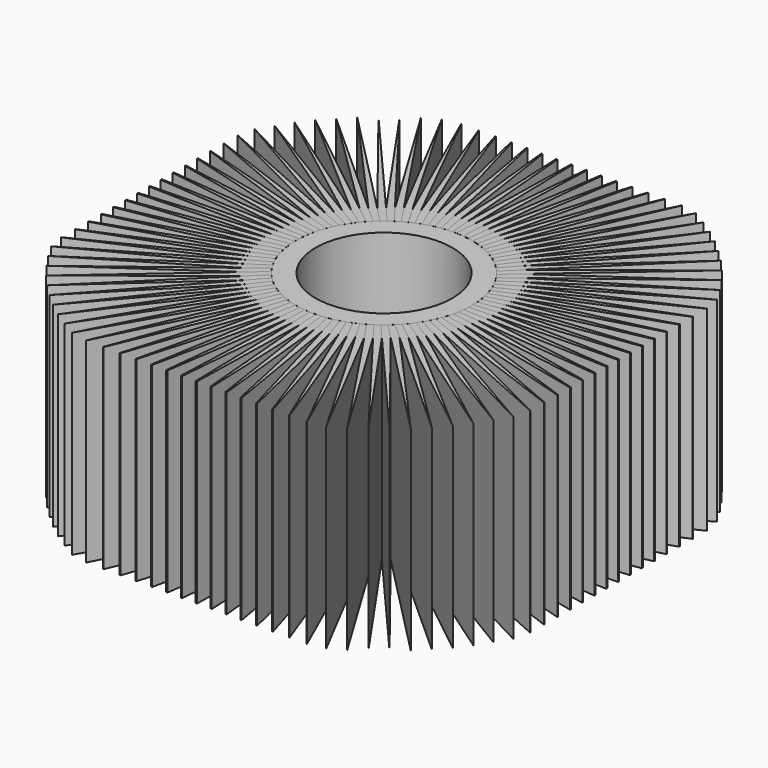
from build123d import *

# Parameters (mm, degrees)
F0_R     = 22.5
F0_R_2   = 17.5
F1_DEPTH = 50
F3_DEPTH = 50
F4_COUNT = 100
F5_W     = 120
F5_H     = 120
F6_DEPTH = 50.001


with BuildPart() as f1:
    # F0 (on Top) → F1 (new body)
    with BuildSketch(Plane.XY):
        Circle(F0_R)
        Circle(F0_R_2, mode=Mode.SUBTRACT)
    extrude(amount=F1_DEPTH)


with BuildPart() as f3:
    # F2 (on Top) → F3 (new body)
    with BuildSketch(Plane.XY):
        Polygon((0, 67.5), (-1, 22.477767), (1, 22.477767), align=None)
    extrude(amount=F3_DEPTH)


with BuildPart() as f4_1:
    # F4: instance of F3
    add(f3.part.rotate(Axis((0, 0, 0), (0, 0, 1)), 1 * 360 / F4_COUNT))


with BuildPart() as f4_2:
    # F4: instance of F3
    add(f3.part.rotate(Axis((0, 0, 0), (0, 0, 1)), 2 * 360 / F4_COUNT))


with BuildPart() as f4_3:
    # F4: instance of F3
    add(f3.part.rotate(Axis((0, 0, 0), (0, 0, 1)), 3 * 360 / F4_COUNT))


with BuildPart() as f4_4:
    # F4: instance of F3
    add(f3.part.rotate(Axis((0, 0, 0), (0, 0, 1)), 4 * 360 / F4_COUNT))


with BuildPart() as f4_5:
    # F4: instance of F3
    add(f3.part.rotate(Axis((0, 0, 0), (0, 0, 1)), 5 * 360 / F4_COUNT))


with BuildPart() as f4_6:
    # F4: instance of F3
    add(f3.part.rotate(Axis((0, 0, 0), (0, 0, 1)), 6 * 360 / F4_COUNT))


with BuildPart() as f4_7:
    # F4: instance of F3
    add(f3.part.rotate(Axis((0, 0, 0), (0, 0, 1)), 7 * 360 / F4_COUNT))


with BuildPart() as f4_8:
    # F4: instance of F3
    add(f3.part.rotate(Axis((0, 0, 0), (0, 0, 1)), 8 * 360 / F4_COUNT))


with BuildPart() as f4_9:
    # F4: instance of F3
    add(f3.part.rotate(Axis((0, 0, 0), (0, 0, 1)), 9 * 360 / F4_COUNT))


with BuildPart() as f4_10:
    # F4: instance of F3
    add(f3.part.rotate(Axis((0, 0, 0), (0, 0, 1)), 10 * 360 / F4_COUNT))


with BuildPart() as f4_11:
    # F4: instance of F3
    add(f3.part.rotate(Axis((0, 0, 0), (0, 0, 1)), 11 * 360 / F4_COUNT))


with BuildPart() as f4_12:
    # F4: instance of F3
    add(f3.part.rotate(Axis((0, 0, 0), (0, 0, 1)), 12 * 360 / F4_COUNT))


with BuildPart() as f4_13:
    # F4: instance of F3
    add(f3.part.rotate(Axis((0, 0, 0), (0, 0, 1)), 13 * 360 / F4_COUNT))


with BuildPart() as f4_14:
    # F4: instance of F3
    add(f3.part.rotate(Axis((0, 0, 0), (0, 0, 1)), 14 * 360 / F4_COUNT))


with BuildPart() as f4_15:
    # F4: instance of F3
    add(f3.part.rotate(Axis((0, 0, 0), (0, 0, 1)), 15 * 360 / F4_COUNT))


with BuildPart() as f4_16:
    # F4: instance of F3
    add(f3.part.rotate(Axis((0, 0, 0), (0, 0, 1)), 16 * 360 / F4_COUNT))


with BuildPart() as f4_17:
    # F4: instance of F3
    add(f3.part.rotate(Axis((0, 0, 0), (0, 0, 1)), 17 * 360 / F4_COUNT))


with BuildPart() as f4_18:
    # F4: instance of F3
    add(f3.part.rotate(Axis((0, 0, 0), (0, 0, 1)), 18 * 360 / F4_COUNT))


with BuildPart() as f4_19:
    # F4: instance of F3
    add(f3.part.rotate(Axis((0, 0, 0), (0, 0, 1)), 19 * 360 / F4_COUNT))


with BuildPart() as f4_20:
    # F4: instance of F3
    add(f3.part.rotate(Axis((0, 0, 0), (0, 0, 1)), 20 * 360 / F4_COUNT))


with BuildPart() as f4_21:
    # F4: instance of F3
    add(f3.part.rotate(Axis((0, 0, 0), (0, 0, 1)), 21 * 360 / F4_COUNT))


with BuildPart() as f4_22:
    # F4: instance of F3
    add(f3.part.rotate(Axis((0, 0, 0), (0, 0, 1)), 22 * 360 / F4_COUNT))


with BuildPart() as f4_23:
    # F4: instance of F3
    add(f3.part.rotate(Axis((0, 0, 0), (0, 0, 1)), 23 * 360 / F4_COUNT))


with BuildPart() as f4_24:
    # F4: instance of F3
    add(f3.part.rotate(Axis((0, 0, 0), (0, 0, 1)), 24 * 360 / F4_COUNT))


with BuildPart() as f4_25:
    # F4: instance of F3
    add(f3.part.rotate(Axis((0, 0, 0), (0, 0, 1)), 25 * 360 / F4_COUNT))


with BuildPart() as f4_26:
    # F4: instance of F3
    add(f3.part.rotate(Axis((0, 0, 0), (0, 0, 1)), 26 * 360 / F4_COUNT))


with BuildPart() as f4_27:
    # F4: instance of F3
    add(f3.part.rotate(Axis((0, 0, 0), (0, 0, 1)), 27 * 360 / F4_COUNT))


with BuildPart() as f4_28:
    # F4: instance of F3
    add(f3.part.rotate(Axis((0, 0, 0), (0, 0, 1)), 28 * 360 / F4_COUNT))


with BuildPart() as f4_29:
    # F4: instance of F3
    add(f3.part.rotate(Axis((0, 0, 0), (0, 0, 1)), 29 * 360 / F4_COUNT))


with BuildPart() as f4_30:
    # F4: instance of F3
    add(f3.part.rotate(Axis((0, 0, 0), (0, 0, 1)), 30 * 360 / F4_COUNT))


with BuildPart() as f4_31:
    # F4: instance of F3
    add(f3.part.rotate(Axis((0, 0, 0), (0, 0, 1)), 31 * 360 / F4_COUNT))


with BuildPart() as f4_32:
    # F4: instance of F3
    add(f3.part.rotate(Axis((0, 0, 0), (0, 0, 1)), 32 * 360 / F4_COUNT))


with BuildPart() as f4_33:
    # F4: instance of F3
    add(f3.part.rotate(Axis((0, 0, 0), (0, 0, 1)), 33 * 360 / F4_COUNT))


with BuildPart() as f4_34:
    # F4: instance of F3
    add(f3.part.rotate(Axis((0, 0, 0), (0, 0, 1)), 34 * 360 / F4_COUNT))


with BuildPart() as f4_35:
    # F4: instance of F3
    add(f3.part.rotate(Axis((0, 0, 0), (0, 0, 1)), 35 * 360 / F4_COUNT))


with BuildPart() as f4_36:
    # F4: instance of F3
    add(f3.part.rotate(Axis((0, 0, 0), (0, 0, 1)), 36 * 360 / F4_COUNT))


with BuildPart() as f4_37:
    # F4: instance of F3
    add(f3.part.rotate(Axis((0, 0, 0), (0, 0, 1)), 37 * 360 / F4_COUNT))


with BuildPart() as f4_38:
    # F4: instance of F3
    add(f3.part.rotate(Axis((0, 0, 0), (0, 0, 1)), 38 * 360 / F4_COUNT))


with BuildPart() as f4_39:
    # F4: instance of F3
    add(f3.part.rotate(Axis((0, 0, 0), (0, 0, 1)), 39 * 360 / F4_COUNT))


with BuildPart() as f4_40:
    # F4: instance of F3
    add(f3.part.rotate(Axis((0, 0, 0), (0, 0, 1)), 40 * 360 / F4_COUNT))


with BuildPart() as f4_41:
    # F4: instance of F3
    add(f3.part.rotate(Axis((0, 0, 0), (0, 0, 1)), 41 * 360 / F4_COUNT))


with BuildPart() as f4_42:
    # F4: instance of F3
    add(f3.part.rotate(Axis((0, 0, 0), (0, 0, 1)), 42 * 360 / F4_COUNT))


with BuildPart() as f4_43:
    # F4: instance of F3
    add(f3.part.rotate(Axis((0, 0, 0), (0, 0, 1)), 43 * 360 / F4_COUNT))


with BuildPart() as f4_44:
    # F4: instance of F3
    add(f3.part.rotate(Axis((0, 0, 0), (0, 0, 1)), 44 * 360 / F4_COUNT))


with BuildPart() as f4_45:
    # F4: instance of F3
    add(f3.part.rotate(Axis((0, 0, 0), (0, 0, 1)), 45 * 360 / F4_COUNT))


with BuildPart() as f4_46:
    # F4: instance of F3
    add(f3.part.rotate(Axis((0, 0, 0), (0, 0, 1)), 46 * 360 / F4_COUNT))


with BuildPart() as f4_47:
    # F4: instance of F3
    add(f3.part.rotate(Axis((0, 0, 0), (0, 0, 1)), 47 * 360 / F4_COUNT))


with BuildPart() as f4_48:
    # F4: instance of F3
    add(f3.part.rotate(Axis((0, 0, 0), (0, 0, 1)), 48 * 360 / F4_COUNT))


with BuildPart() as f4_49:
    # F4: instance of F3
    add(f3.part.rotate(Axis((0, 0, 0), (0, 0, 1)), 49 * 360 / F4_COUNT))


with BuildPart() as f4_50:
    # F4: instance of F3
    add(f3.part.rotate(Axis((0, 0, 0), (0, 0, 1)), 50 * 360 / F4_COUNT))


with BuildPart() as f4_51:
    # F4: instance of F3
    add(f3.part.rotate(Axis((0, 0, 0), (0, 0, 1)), 51 * 360 / F4_COUNT))


with BuildPart() as f4_52:
    # F4: instance of F3
    add(f3.part.rotate(Axis((0, 0, 0), (0, 0, 1)), 52 * 360 / F4_COUNT))


with BuildPart() as f4_53:
    # F4: instance of F3
    add(f3.part.rotate(Axis((0, 0, 0), (0, 0, 1)), 53 * 360 / F4_COUNT))


with BuildPart() as f4_54:
    # F4: instance of F3
    add(f3.part.rotate(Axis((0, 0, 0), (0, 0, 1)), 54 * 360 / F4_COUNT))


with BuildPart() as f4_55:
    # F4: instance of F3
    add(f3.part.rotate(Axis((0, 0, 0), (0, 0, 1)), 55 * 360 / F4_COUNT))


with BuildPart() as f4_56:
    # F4: instance of F3
    add(f3.part.rotate(Axis((0, 0, 0), (0, 0, 1)), 56 * 360 / F4_COUNT))


with BuildPart() as f4_57:
    # F4: instance of F3
    add(f3.part.rotate(Axis((0, 0, 0), (0, 0, 1)), 57 * 360 / F4_COUNT))


with BuildPart() as f4_58:
    # F4: instance of F3
    add(f3.part.rotate(Axis((0, 0, 0), (0, 0, 1)), 58 * 360 / F4_COUNT))


with BuildPart() as f4_59:
    # F4: instance of F3
    add(f3.part.rotate(Axis((0, 0, 0), (0, 0, 1)), 59 * 360 / F4_COUNT))


with BuildPart() as f4_60:
    # F4: instance of F3
    add(f3.part.rotate(Axis((0, 0, 0), (0, 0, 1)), 60 * 360 / F4_COUNT))


with BuildPart() as f4_61:
    # F4: instance of F3
    add(f3.part.rotate(Axis((0, 0, 0), (0, 0, 1)), 61 * 360 / F4_COUNT))


with BuildPart() as f4_62:
    # F4: instance of F3
    add(f3.part.rotate(Axis((0, 0, 0), (0, 0, 1)), 62 * 360 / F4_COUNT))


with BuildPart() as f4_63:
    # F4: instance of F3
    add(f3.part.rotate(Axis((0, 0, 0), (0, 0, 1)), 63 * 360 / F4_COUNT))


with BuildPart() as f4_64:
    # F4: instance of F3
    add(f3.part.rotate(Axis((0, 0, 0), (0, 0, 1)), 64 * 360 / F4_COUNT))


with BuildPart() as f4_65:
    # F4: instance of F3
    add(f3.part.rotate(Axis((0, 0, 0), (0, 0, 1)), 65 * 360 / F4_COUNT))


with BuildPart() as f4_66:
    # F4: instance of F3
    add(f3.part.rotate(Axis((0, 0, 0), (0, 0, 1)), 66 * 360 / F4_COUNT))


with BuildPart() as f4_67:
    # F4: instance of F3
    add(f3.part.rotate(Axis((0, 0, 0), (0, 0, 1)), 67 * 360 / F4_COUNT))


with BuildPart() as f4_68:
    # F4: instance of F3
    add(f3.part.rotate(Axis((0, 0, 0), (0, 0, 1)), 68 * 360 / F4_COUNT))


with BuildPart() as f4_69:
    # F4: instance of F3
    add(f3.part.rotate(Axis((0, 0, 0), (0, 0, 1)), 69 * 360 / F4_COUNT))


with BuildPart() as f4_70:
    # F4: instance of F3
    add(f3.part.rotate(Axis((0, 0, 0), (0, 0, 1)), 70 * 360 / F4_COUNT))


with BuildPart() as f4_71:
    # F4: instance of F3
    add(f3.part.rotate(Axis((0, 0, 0), (0, 0, 1)), 71 * 360 / F4_COUNT))


with BuildPart() as f4_72:
    # F4: instance of F3
    add(f3.part.rotate(Axis((0, 0, 0), (0, 0, 1)), 72 * 360 / F4_COUNT))


with BuildPart() as f4_73:
    # F4: instance of F3
    add(f3.part.rotate(Axis((0, 0, 0), (0, 0, 1)), 73 * 360 / F4_COUNT))


with BuildPart() as f4_74:
    # F4: instance of F3
    add(f3.part.rotate(Axis((0, 0, 0), (0, 0, 1)), 74 * 360 / F4_COUNT))


with BuildPart() as f4_75:
    # F4: instance of F3
    add(f3.part.rotate(Axis((0, 0, 0), (0, 0, 1)), 75 * 360 / F4_COUNT))


with BuildPart() as f4_76:
    # F4: instance of F3
    add(f3.part.rotate(Axis((0, 0, 0), (0, 0, 1)), 76 * 360 / F4_COUNT))


with BuildPart() as f4_77:
    # F4: instance of F3
    add(f3.part.rotate(Axis((0, 0, 0), (0, 0, 1)), 77 * 360 / F4_COUNT))


with BuildPart() as f4_78:
    # F4: instance of F3
    add(f3.part.rotate(Axis((0, 0, 0), (0, 0, 1)), 78 * 360 / F4_COUNT))


with BuildPart() as f4_79:
    # F4: instance of F3
    add(f3.part.rotate(Axis((0, 0, 0), (0, 0, 1)), 79 * 360 / F4_COUNT))


with BuildPart() as f4_80:
    # F4: instance of F3
    add(f3.part.rotate(Axis((0, 0, 0), (0, 0, 1)), 80 * 360 / F4_COUNT))


with BuildPart() as f4_81:
    # F4: instance of F3
    add(f3.part.rotate(Axis((0, 0, 0), (0, 0, 1)), 81 * 360 / F4_COUNT))


with BuildPart() as f4_82:
    # F4: instance of F3
    add(f3.part.rotate(Axis((0, 0, 0), (0, 0, 1)), 82 * 360 / F4_COUNT))


with BuildPart() as f4_83:
    # F4: instance of F3
    add(f3.part.rotate(Axis((0, 0, 0), (0, 0, 1)), 83 * 360 / F4_COUNT))


with BuildPart() as f4_84:
    # F4: instance of F3
    add(f3.part.rotate(Axis((0, 0, 0), (0, 0, 1)), 84 * 360 / F4_COUNT))


with BuildPart() as f4_85:
    # F4: instance of F3
    add(f3.part.rotate(Axis((0, 0, 0), (0, 0, 1)), 85 * 360 / F4_COUNT))


with BuildPart() as f4_86:
    # F4: instance of F3
    add(f3.part.rotate(Axis((0, 0, 0), (0, 0, 1)), 86 * 360 / F4_COUNT))


with BuildPart() as f4_87:
    # F4: instance of F3
    add(f3.part.rotate(Axis((0, 0, 0), (0, 0, 1)), 87 * 360 / F4_COUNT))


with BuildPart() as f4_88:
    # F4: instance of F3
    add(f3.part.rotate(Axis((0, 0, 0), (0, 0, 1)), 88 * 360 / F4_COUNT))


with BuildPart() as f4_89:
    # F4: instance of F3
    add(f3.part.rotate(Axis((0, 0, 0), (0, 0, 1)), 89 * 360 / F4_COUNT))


with BuildPart() as f4_90:
    # F4: instance of F3
    add(f3.part.rotate(Axis((0, 0, 0), (0, 0, 1)), 90 * 360 / F4_COUNT))


with BuildPart() as f4_91:
    # F4: instance of F3
    add(f3.part.rotate(Axis((0, 0, 0), (0, 0, 1)), 91 * 360 / F4_COUNT))


with BuildPart() as f4_92:
    # F4: instance of F3
    add(f3.part.rotate(Axis((0, 0, 0), (0, 0, 1)), 92 * 360 / F4_COUNT))


with BuildPart() as f4_93:
    # F4: instance of F3
    add(f3.part.rotate(Axis((0, 0, 0), (0, 0, 1)), 93 * 360 / F4_COUNT))


with BuildPart() as f4_94:
    # F4: instance of F3
    add(f3.part.rotate(Axis((0, 0, 0), (0, 0, 1)), 94 * 360 / F4_COUNT))


with BuildPart() as f4_95:
    # F4: instance of F3
    add(f3.part.rotate(Axis((0, 0, 0), (0, 0, 1)), 95 * 360 / F4_COUNT))


with BuildPart() as f4_96:
    # F4: instance of F3
    add(f3.part.rotate(Axis((0, 0, 0), (0, 0, 1)), 96 * 360 / F4_COUNT))


with BuildPart() as f4_97:
    # F4: instance of F3
    add(f3.part.rotate(Axis((0, 0, 0), (0, 0, 1)), 97 * 360 / F4_COUNT))


with BuildPart() as f4_98:
    # F4: instance of F3
    add(f3.part.rotate(Axis((0, 0, 0), (0, 0, 1)), 98 * 360 / F4_COUNT))


with BuildPart() as f4_99:
    # F4: instance of F3
    add(f3.part.rotate(Axis((0, 0, 0), (0, 0, 1)), 99 * 360 / F4_COUNT))


with BuildPart() as f6_tool:
    # F5 (on face) → F6 (new body, through all)
    with BuildSketch(Plane.XY):
        Rectangle(F5_W, F5_H)
    extrude(amount=F6_DEPTH)


with BuildPart() as f1_1:
    add(f1.part)

    # F6: intersect by f6_tool
    add(f6_tool.part, mode=Mode.INTERSECT)


with BuildPart() as f3_1:
    add(f3.part)

    # F6: intersect by f6_tool
    add(f6_tool.part, mode=Mode.INTERSECT)


with BuildPart() as f4_1_1:
    add(f4_1.part)

    # F6: intersect by f6_tool
    add(f6_tool.part, mode=Mode.INTERSECT)


with BuildPart() as f4_2_1:
    add(f4_2.part)

    # F6: intersect by f6_tool
    add(f6_tool.part, mode=Mode.INTERSECT)


with BuildPart() as f4_3_1:
    add(f4_3.part)

    # F6: intersect by f6_tool
    add(f6_tool.part, mode=Mode.INTERSECT)


with BuildPart() as f4_4_1:
    add(f4_4.part)

    # F6: intersect by f6_tool
    add(f6_tool.part, mode=Mode.INTERSECT)


with BuildPart() as f4_5_1:
    add(f4_5.part)

    # F6: intersect by f6_tool
    add(f6_tool.part, mode=Mode.INTERSECT)


with BuildPart() as f4_6_1:
    add(f4_6.part)

    # F6: intersect by f6_tool
    add(f6_tool.part, mode=Mode.INTERSECT)


with BuildPart() as f4_7_1:
    add(f4_7.part)

    # F6: intersect by f6_tool
    add(f6_tool.part, mode=Mode.INTERSECT)


with BuildPart() as f4_8_1:
    add(f4_8.part)

    # F6: intersect by f6_tool
    add(f6_tool.part, mode=Mode.INTERSECT)


with BuildPart() as f4_9_1:
    add(f4_9.part)

    # F6: intersect by f6_tool
    add(f6_tool.part, mode=Mode.INTERSECT)


with BuildPart() as f4_10_1:
    add(f4_10.part)

    # F6: intersect by f6_tool
    add(f6_tool.part, mode=Mode.INTERSECT)


with BuildPart() as f4_11_1:
    add(f4_11.part)

    # F6: intersect by f6_tool
    add(f6_tool.part, mode=Mode.INTERSECT)


with BuildPart() as f4_12_1:
    add(f4_12.part)

    # F6: intersect by f6_tool
    add(f6_tool.part, mode=Mode.INTERSECT)


with BuildPart() as f4_13_1:
    add(f4_13.part)

    # F6: intersect by f6_tool
    add(f6_tool.part, mode=Mode.INTERSECT)


with BuildPart() as f4_14_1:
    add(f4_14.part)

    # F6: intersect by f6_tool
    add(f6_tool.part, mode=Mode.INTERSECT)


with BuildPart() as f4_15_1:
    add(f4_15.part)

    # F6: intersect by f6_tool
    add(f6_tool.part, mode=Mode.INTERSECT)


with BuildPart() as f4_16_1:
    add(f4_16.part)

    # F6: intersect by f6_tool
    add(f6_tool.part, mode=Mode.INTERSECT)


with BuildPart() as f4_17_1:
    add(f4_17.part)

    # F6: intersect by f6_tool
    add(f6_tool.part, mode=Mode.INTERSECT)


with BuildPart() as f4_18_1:
    add(f4_18.part)

    # F6: intersect by f6_tool
    add(f6_tool.part, mode=Mode.INTERSECT)


with BuildPart() as f4_19_1:
    add(f4_19.part)

    # F6: intersect by f6_tool
    add(f6_tool.part, mode=Mode.INTERSECT)


with BuildPart() as f4_20_1:
    add(f4_20.part)

    # F6: intersect by f6_tool
    add(f6_tool.part, mode=Mode.INTERSECT)


with BuildPart() as f4_21_1:
    add(f4_21.part)

    # F6: intersect by f6_tool
    add(f6_tool.part, mode=Mode.INTERSECT)


with BuildPart() as f4_22_1:
    add(f4_22.part)

    # F6: intersect by f6_tool
    add(f6_tool.part, mode=Mode.INTERSECT)


with BuildPart() as f4_23_1:
    add(f4_23.part)

    # F6: intersect by f6_tool
    add(f6_tool.part, mode=Mode.INTERSECT)


with BuildPart() as f4_24_1:
    add(f4_24.part)

    # F6: intersect by f6_tool
    add(f6_tool.part, mode=Mode.INTERSECT)


with BuildPart() as f4_25_1:
    add(f4_25.part)

    # F6: intersect by f6_tool
    add(f6_tool.part, mode=Mode.INTERSECT)


with BuildPart() as f4_26_1:
    add(f4_26.part)

    # F6: intersect by f6_tool
    add(f6_tool.part, mode=Mode.INTERSECT)


with BuildPart() as f4_27_1:
    add(f4_27.part)

    # F6: intersect by f6_tool
    add(f6_tool.part, mode=Mode.INTERSECT)


with BuildPart() as f4_28_1:
    add(f4_28.part)

    # F6: intersect by f6_tool
    add(f6_tool.part, mode=Mode.INTERSECT)


with BuildPart() as f4_29_1:
    add(f4_29.part)

    # F6: intersect by f6_tool
    add(f6_tool.part, mode=Mode.INTERSECT)


with BuildPart() as f4_30_1:
    add(f4_30.part)

    # F6: intersect by f6_tool
    add(f6_tool.part, mode=Mode.INTERSECT)


with BuildPart() as f4_31_1:
    add(f4_31.part)

    # F6: intersect by f6_tool
    add(f6_tool.part, mode=Mode.INTERSECT)


with BuildPart() as f4_32_1:
    add(f4_32.part)

    # F6: intersect by f6_tool
    add(f6_tool.part, mode=Mode.INTERSECT)


with BuildPart() as f4_33_1:
    add(f4_33.part)

    # F6: intersect by f6_tool
    add(f6_tool.part, mode=Mode.INTERSECT)


with BuildPart() as f4_34_1:
    add(f4_34.part)

    # F6: intersect by f6_tool
    add(f6_tool.part, mode=Mode.INTERSECT)


with BuildPart() as f4_35_1:
    add(f4_35.part)

    # F6: intersect by f6_tool
    add(f6_tool.part, mode=Mode.INTERSECT)


with BuildPart() as f4_36_1:
    add(f4_36.part)

    # F6: intersect by f6_tool
    add(f6_tool.part, mode=Mode.INTERSECT)


with BuildPart() as f4_37_1:
    add(f4_37.part)

    # F6: intersect by f6_tool
    add(f6_tool.part, mode=Mode.INTERSECT)


with BuildPart() as f4_38_1:
    add(f4_38.part)

    # F6: intersect by f6_tool
    add(f6_tool.part, mode=Mode.INTERSECT)


with BuildPart() as f4_39_1:
    add(f4_39.part)

    # F6: intersect by f6_tool
    add(f6_tool.part, mode=Mode.INTERSECT)


with BuildPart() as f4_40_1:
    add(f4_40.part)

    # F6: intersect by f6_tool
    add(f6_tool.part, mode=Mode.INTERSECT)


with BuildPart() as f4_41_1:
    add(f4_41.part)

    # F6: intersect by f6_tool
    add(f6_tool.part, mode=Mode.INTERSECT)


with BuildPart() as f4_42_1:
    add(f4_42.part)

    # F6: intersect by f6_tool
    add(f6_tool.part, mode=Mode.INTERSECT)


with BuildPart() as f4_43_1:
    add(f4_43.part)

    # F6: intersect by f6_tool
    add(f6_tool.part, mode=Mode.INTERSECT)


with BuildPart() as f4_44_1:
    add(f4_44.part)

    # F6: intersect by f6_tool
    add(f6_tool.part, mode=Mode.INTERSECT)


with BuildPart() as f4_45_1:
    add(f4_45.part)

    # F6: intersect by f6_tool
    add(f6_tool.part, mode=Mode.INTERSECT)


with BuildPart() as f4_46_1:
    add(f4_46.part)

    # F6: intersect by f6_tool
    add(f6_tool.part, mode=Mode.INTERSECT)


with BuildPart() as f4_47_1:
    add(f4_47.part)

    # F6: intersect by f6_tool
    add(f6_tool.part, mode=Mode.INTERSECT)


with BuildPart() as f4_48_1:
    add(f4_48.part)

    # F6: intersect by f6_tool
    add(f6_tool.part, mode=Mode.INTERSECT)


with BuildPart() as f4_49_1:
    add(f4_49.part)

    # F6: intersect by f6_tool
    add(f6_tool.part, mode=Mode.INTERSECT)


with BuildPart() as f4_50_1:
    add(f4_50.part)

    # F6: intersect by f6_tool
    add(f6_tool.part, mode=Mode.INTERSECT)


with BuildPart() as f4_51_1:
    add(f4_51.part)

    # F6: intersect by f6_tool
    add(f6_tool.part, mode=Mode.INTERSECT)


with BuildPart() as f4_52_1:
    add(f4_52.part)

    # F6: intersect by f6_tool
    add(f6_tool.part, mode=Mode.INTERSECT)


with BuildPart() as f4_53_1:
    add(f4_53.part)

    # F6: intersect by f6_tool
    add(f6_tool.part, mode=Mode.INTERSECT)


with BuildPart() as f4_54_1:
    add(f4_54.part)

    # F6: intersect by f6_tool
    add(f6_tool.part, mode=Mode.INTERSECT)


with BuildPart() as f4_55_1:
    add(f4_55.part)

    # F6: intersect by f6_tool
    add(f6_tool.part, mode=Mode.INTERSECT)


with BuildPart() as f4_56_1:
    add(f4_56.part)

    # F6: intersect by f6_tool
    add(f6_tool.part, mode=Mode.INTERSECT)


with BuildPart() as f4_57_1:
    add(f4_57.part)

    # F6: intersect by f6_tool
    add(f6_tool.part, mode=Mode.INTERSECT)


with BuildPart() as f4_58_1:
    add(f4_58.part)

    # F6: intersect by f6_tool
    add(f6_tool.part, mode=Mode.INTERSECT)


with BuildPart() as f4_59_1:
    add(f4_59.part)

    # F6: intersect by f6_tool
    add(f6_tool.part, mode=Mode.INTERSECT)


with BuildPart() as f4_60_1:
    add(f4_60.part)

    # F6: intersect by f6_tool
    add(f6_tool.part, mode=Mode.INTERSECT)


with BuildPart() as f4_61_1:
    add(f4_61.part)

    # F6: intersect by f6_tool
    add(f6_tool.part, mode=Mode.INTERSECT)


with BuildPart() as f4_62_1:
    add(f4_62.part)

    # F6: intersect by f6_tool
    add(f6_tool.part, mode=Mode.INTERSECT)


with BuildPart() as f4_63_1:
    add(f4_63.part)

    # F6: intersect by f6_tool
    add(f6_tool.part, mode=Mode.INTERSECT)


with BuildPart() as f4_64_1:
    add(f4_64.part)

    # F6: intersect by f6_tool
    add(f6_tool.part, mode=Mode.INTERSECT)


with BuildPart() as f4_65_1:
    add(f4_65.part)

    # F6: intersect by f6_tool
    add(f6_tool.part, mode=Mode.INTERSECT)


with BuildPart() as f4_66_1:
    add(f4_66.part)

    # F6: intersect by f6_tool
    add(f6_tool.part, mode=Mode.INTERSECT)


with BuildPart() as f4_67_1:
    add(f4_67.part)

    # F6: intersect by f6_tool
    add(f6_tool.part, mode=Mode.INTERSECT)


with BuildPart() as f4_68_1:
    add(f4_68.part)

    # F6: intersect by f6_tool
    add(f6_tool.part, mode=Mode.INTERSECT)


with BuildPart() as f4_69_1:
    add(f4_69.part)

    # F6: intersect by f6_tool
    add(f6_tool.part, mode=Mode.INTERSECT)


with BuildPart() as f4_70_1:
    add(f4_70.part)

    # F6: intersect by f6_tool
    add(f6_tool.part, mode=Mode.INTERSECT)


with BuildPart() as f4_71_1:
    add(f4_71.part)

    # F6: intersect by f6_tool
    add(f6_tool.part, mode=Mode.INTERSECT)


with BuildPart() as f4_72_1:
    add(f4_72.part)

    # F6: intersect by f6_tool
    add(f6_tool.part, mode=Mode.INTERSECT)


with BuildPart() as f4_73_1:
    add(f4_73.part)

    # F6: intersect by f6_tool
    add(f6_tool.part, mode=Mode.INTERSECT)


with BuildPart() as f4_74_1:
    add(f4_74.part)

    # F6: intersect by f6_tool
    add(f6_tool.part, mode=Mode.INTERSECT)


with BuildPart() as f4_75_1:
    add(f4_75.part)

    # F6: intersect by f6_tool
    add(f6_tool.part, mode=Mode.INTERSECT)


with BuildPart() as f4_76_1:
    add(f4_76.part)

    # F6: intersect by f6_tool
    add(f6_tool.part, mode=Mode.INTERSECT)


with BuildPart() as f4_77_1:
    add(f4_77.part)

    # F6: intersect by f6_tool
    add(f6_tool.part, mode=Mode.INTERSECT)


with BuildPart() as f4_78_1:
    add(f4_78.part)

    # F6: intersect by f6_tool
    add(f6_tool.part, mode=Mode.INTERSECT)


with BuildPart() as f4_79_1:
    add(f4_79.part)

    # F6: intersect by f6_tool
    add(f6_tool.part, mode=Mode.INTERSECT)


with BuildPart() as f4_80_1:
    add(f4_80.part)

    # F6: intersect by f6_tool
    add(f6_tool.part, mode=Mode.INTERSECT)


with BuildPart() as f4_81_1:
    add(f4_81.part)

    # F6: intersect by f6_tool
    add(f6_tool.part, mode=Mode.INTERSECT)


with BuildPart() as f4_82_1:
    add(f4_82.part)

    # F6: intersect by f6_tool
    add(f6_tool.part, mode=Mode.INTERSECT)


with BuildPart() as f4_83_1:
    add(f4_83.part)

    # F6: intersect by f6_tool
    add(f6_tool.part, mode=Mode.INTERSECT)


with BuildPart() as f4_84_1:
    add(f4_84.part)

    # F6: intersect by f6_tool
    add(f6_tool.part, mode=Mode.INTERSECT)


with BuildPart() as f4_85_1:
    add(f4_85.part)

    # F6: intersect by f6_tool
    add(f6_tool.part, mode=Mode.INTERSECT)


with BuildPart() as f4_86_1:
    add(f4_86.part)

    # F6: intersect by f6_tool
    add(f6_tool.part, mode=Mode.INTERSECT)


with BuildPart() as f4_87_1:
    add(f4_87.part)

    # F6: intersect by f6_tool
    add(f6_tool.part, mode=Mode.INTERSECT)


with BuildPart() as f4_88_1:
    add(f4_88.part)

    # F6: intersect by f6_tool
    add(f6_tool.part, mode=Mode.INTERSECT)


with BuildPart() as f4_89_1:
    add(f4_89.part)

    # F6: intersect by f6_tool
    add(f6_tool.part, mode=Mode.INTERSECT)


with BuildPart() as f4_90_1:
    add(f4_90.part)

    # F6: intersect by f6_tool
    add(f6_tool.part, mode=Mode.INTERSECT)


with BuildPart() as f4_91_1:
    add(f4_91.part)

    # F6: intersect by f6_tool
    add(f6_tool.part, mode=Mode.INTERSECT)


with BuildPart() as f4_92_1:
    add(f4_92.part)

    # F6: intersect by f6_tool
    add(f6_tool.part, mode=Mode.INTERSECT)


with BuildPart() as f4_93_1:
    add(f4_93.part)

    # F6: intersect by f6_tool
    add(f6_tool.part, mode=Mode.INTERSECT)


with BuildPart() as f4_94_1:
    add(f4_94.part)

    # F6: intersect by f6_tool
    add(f6_tool.part, mode=Mode.INTERSECT)


with BuildPart() as f4_95_1:
    add(f4_95.part)

    # F6: intersect by f6_tool
    add(f6_tool.part, mode=Mode.INTERSECT)


with BuildPart() as f4_96_1:
    add(f4_96.part)

    # F6: intersect by f6_tool
    add(f6_tool.part, mode=Mode.INTERSECT)


with BuildPart() as f4_97_1:
    add(f4_97.part)

    # F6: intersect by f6_tool
    add(f6_tool.part, mode=Mode.INTERSECT)


with BuildPart() as f4_98_1:
    add(f4_98.part)

    # F6: intersect by f6_tool
    add(f6_tool.part, mode=Mode.INTERSECT)


with BuildPart() as f4_99_1:
    add(f4_99.part)

    # F6: intersect by f6_tool
    add(f6_tool.part, mode=Mode.INTERSECT)


solid = Compound([f1_1.part, f3_1.part, f4_1_1.part, f4_2_1.part, f4_3_1.part, f4_4_1.part, f4_5_1.part, f4_6_1.part, f4_7_1.part, f4_8_1.part, f4_9_1.part, f4_10_1.part, f4_11_1.part, f4_12_1.part, f4_13_1.part, f4_14_1.part, f4_15_1.part, f4_16_1.part, f4_17_1.part, f4_18_1.part, f4_19_1.part, f4_20_1.part, f4_21_1.part, f4_22_1.part, f4_23_1.part, f4_24_1.part, f4_25_1.part, f4_26_1.part, f4_27_1.part, f4_28_1.part, f4_29_1.part, f4_30_1.part, f4_31_1.part, f4_32_1.part, f4_33_1.part, f4_34_1.part, f4_35_1.part, f4_36_1.part, f4_37_1.part, f4_38_1.part, f4_39_1.part, f4_40_1.part, f4_41_1.part, f4_42_1.part, f4_43_1.part, f4_44_1.part, f4_45_1.part, f4_46_1.part, f4_47_1.part, f4_48_1.part, f4_49_1.part, f4_50_1.part, f4_51_1.part, f4_52_1.part, f4_53_1.part, f4_54_1.part, f4_55_1.part, f4_56_1.part, f4_57_1.part, f4_58_1.part, f4_59_1.part, f4_60_1.part, f4_61_1.part, f4_62_1.part, f4_63_1.part, f4_64_1.part, f4_65_1.part, f4_66_1.part, f4_67_1.part, f4_68_1.part, f4_69_1.part, f4_70_1.part, f4_71_1.part, f4_72_1.part, f4_73_1.part, f4_74_1.part, f4_75_1.part, f4_76_1.part, f4_77_1.part, f4_78_1.part, f4_79_1.part, f4_80_1.part, f4_81_1.part, f4_82_1.part, f4_83_1.part, f4_84_1.part, f4_85_1.part, f4_86_1.part, f4_87_1.part, f4_88_1.part, f4_89_1.part, f4_90_1.part, f4_91_1.part, f4_92_1.part, f4_93_1.part, f4_94_1.part, f4_95_1.part, f4_96_1.part, f4_97_1.part, f4_98_1.part, f4_99_1.part])
